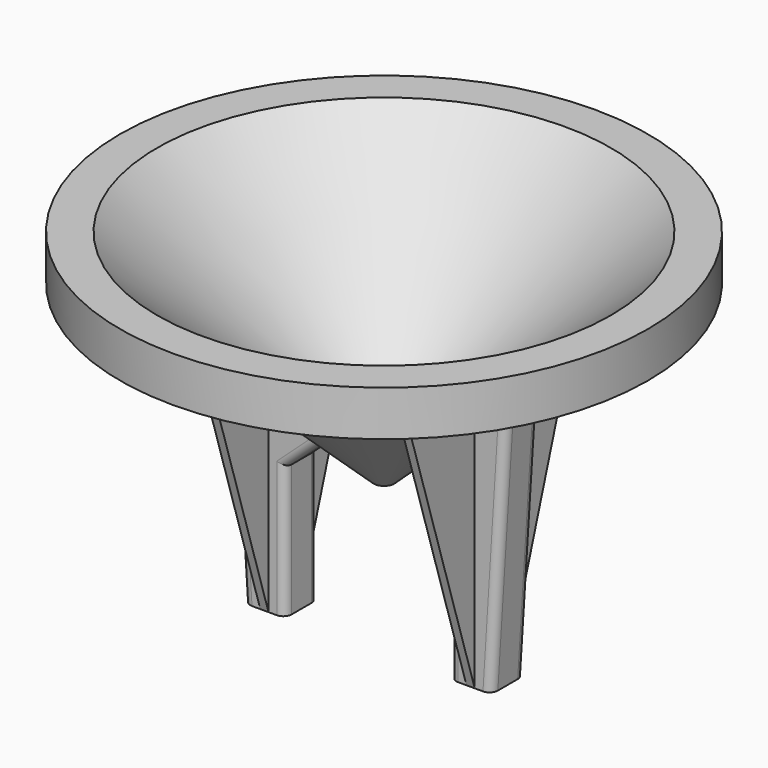
from build123d import *

# Parameters (mm, degrees)
PAD_DEPTH                  = 5
POCKET_DEPTH               = 416.682466
PAD001_DEPTH               = 1
PAD001_MIRRORED002_2_DEPTH = 1
FILLET_R                   = 2
BODY_PLACEMENT_ANGLE       = 180


with BuildPart() as part:
    # Sketch → Revolution (revolve)
    with BuildSketch(Plane.XZ):
        Polygon((2.5, 53), (55, 4), (59.5, 4), (59.5, 11), (64, 11), (64, 0), (55, 0), (2.5, 48), align=None)
    revolve(axis=Axis((0, 0, 0), (0, 0, 1)))

    # Sketch001 → Pad (new body, symmetric)
    with BuildSketch(Plane.XZ):
        Polygon((9, 45), (20, 55), (20, 87), (30, 87), (34, 23), align=None)
    pad = extrude(amount=PAD_DEPTH, both=True)

    # Mirrored: Pad across Sketch001 V_Axis
    add(pad.mirror(Plane(origin=(0, 0, 0), x_dir=(0, -1, 0), z_dir=(1, 0, 0))))

    # Sketch003 (on DatumPlane) → Pocket (cut, through all)
    with BuildSketch(Plane.XY.offset(72)):
        Polygon((27, 0), (26, 1.732051), (24, 1.732051), (23, 0), (24, -1.732051), (26, -1.732051), align=None)
    pocket = extrude(amount=POCKET_DEPTH, mode=Mode.SUBTRACT)

    # Mirrored001: Pocket across Sketch003 V_Axis
    add(pocket.mirror(Plane(origin=(0, 0, 72), x_dir=(0, 0, 1), z_dir=(1, 0, 0))), mode=Mode.SUBTRACT)

    # Sketch004 (on DatumPlane) → Pad001 (join, symmetric)
    with BuildSketch(Plane.YZ.offset(-25)):
        Polygon((5, 87), (26, 20), (4, 30), (4, 86), align=None)
    pad001 = extrude(amount=PAD001_DEPTH, both=True)

    # Sketch004 Mirrored002 2 → Pad001 Mirrored002 2 (add, symmetric)
    with BuildSketch(Plane(origin=(-25, 0, 0), x_dir=(0, -1, 0), z_dir=(-1, 0, 0))):
        Polygon((5, 87), (26, 20), (4, 30), (4, 86), align=None)
    pad001_mirrored002_2 = extrude(amount=-PAD001_MIRRORED002_2_DEPTH, both=True)

    # Mirrored003: Pad001, Pad001 Mirrored002 2 across YZ
    add(pad001.mirror(Plane.YZ))
    add(pad001_mirrored002_2.mirror(Plane.YZ))

    # Fillet
    fillet_edges = [part.edges().sort_by_distance(p)[0] for p in [
        (-31.991421, -5, 55.137271),
        (-31.991421, 5, 55.137271),
        (31.991421, -5, 55.137271),
        (31.991421, 5, 55.137271),
        (-20, 5, 71),
        (-20, -5, 71),
        (-14.709357, -5, 50.190324),
        (14.709357, -5, 50.190324),
        (20, -5, 71),
        (-2.5, 0, 48),
        (-59.5, 0, 11),
        (20, 5, 71),
        (14.709357, 5, 50.190324),
        (-14.709357, 5, 50.190324),
    ]]
    fillet(fillet_edges, radius=FILLET_R)


with BuildPart() as part_1:
    # Body placement: moved
    add(part.part.rotate(Axis((0, 0, 0), (1, 0, 0)), BODY_PLACEMENT_ANGLE))


solid = part_1.part
